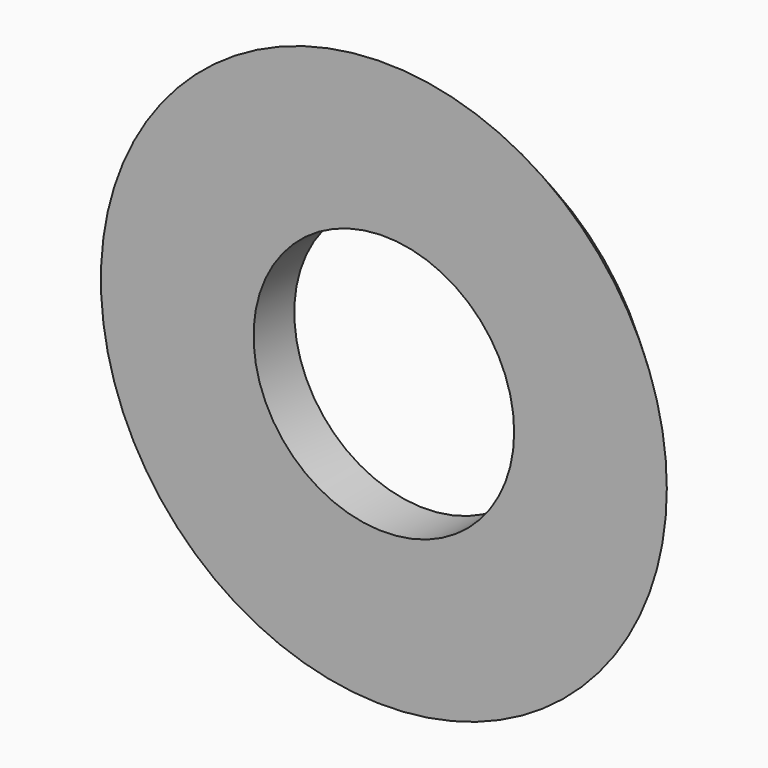
from build123d import *


with BuildPart() as part:
    # Sketch → Revolution (revolve)
    with BuildSketch(Plane.XY):
        Polygon((27.8, 0), (22.8, 5), (12.8, 5), (12.8, 0), align=None)
    revolve(axis=Axis((0, 0, 0), (0, 1, 0)))


solid = part.part
